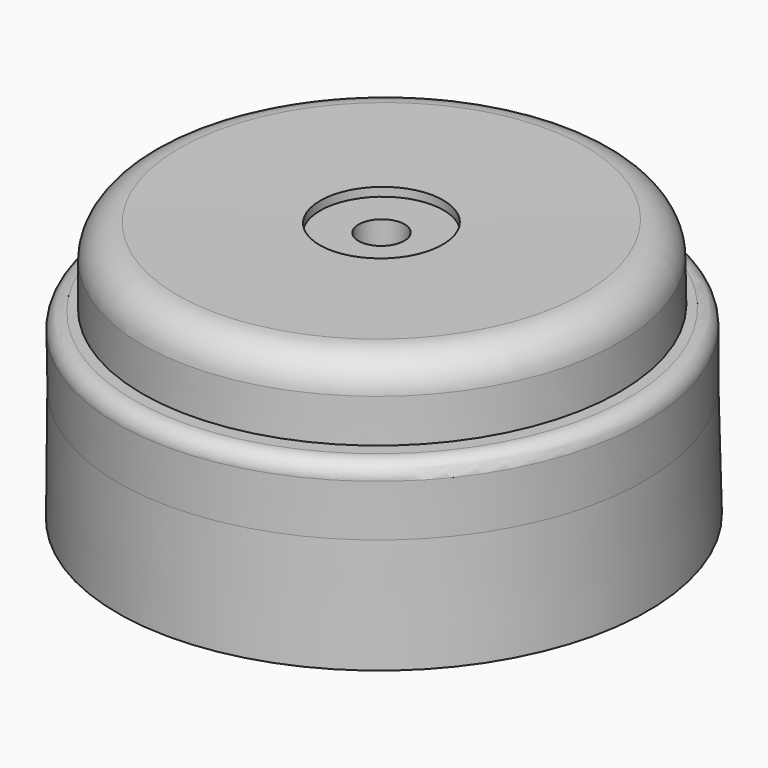
from build123d import *

# Parameters (mm, degrees)
F5_DEPTH = 0.75


with BuildPart() as f2:
    # F0 (on Front) → F2 (revolve)
    with BuildSketch(Plane.XZ):
        with BuildLine():
            Line((-1.3487565264, 7.9544333927), (-3.1521232403, 7.9434764208))
            Line((-3.1521232403, 7.9434764208), (-3.1521232403, 1.5934764208))
            Line((-3.1521232403, 1.5934764208), (-12.7521215063, 1.5992464713))
            Line((-12.7521215063, 1.5992464713), (-12.6789286733, 9.9799623713))
            Line((-12.6789286733, 9.9799623713), (-13.6410426348, 9.9799623713))
            ThreePointArc((-13.6410426348, 9.9799623713), (-14.2703829514, 9.7246417856), (-14.5244277004, 9.0947853727))
            Line((-14.5244277004, 9.0947853727), (-14.4742932171, 6.2504751841))
            Line((-14.4742932171, 6.2504751841), (-14.5186232403, 0))
            Line((-14.5186232403, 0), (0, 0))
            Line((0, 0), (-0.0152662604, 1.5993382476))
            Line((-0.0152662604, 1.5993382476), (-1.3487565264, 1.6044333927))
            Line((-1.3487565264, 1.6044333927), (-1.3487565264, 7.9544333927))
        make_face()
    revolve(axis=Axis((-0.0076331302, 0, 0.7996691238), (-0.0095449258, 0, 0.9999544462)))

    # F4 (on Top) → F5 (cut)
    with BuildSketch(Plane.XY):
        Polygon((-6.054009673, -9.1478030266), (10.9492346463, -0.6690246583), (-4.8952249733, 9.8168276848), align=None)
        Polygon((-5.0641396083, -7.6951645315), (-4.2572957464, 8.5492925718), (9.389662073, -0.48225461), align=None, mode=Mode.SUBTRACT)
    extrude(amount=F5_DEPTH, mode=Mode.SUBTRACT)


with BuildPart() as f3:
    # F1 (on Front) → F3 (revolve)
    with BuildSketch(Plane.XZ):
        with BuildLine():
            Line((-12.4288613136, 8.155473838), (-3.5388504621, 8.0721956371))
            Line((-3.5388504621, 8.0721956371), (-3.5388504621, 8.2962643355))
            Line((-3.5388504621, 8.2962643355), (-1.3876460725, 8.2962643355))
            Line((-1.3876460725, 8.2962643355), (-1.3876460725, 13.8216447085))
            Line((-1.3876460725, 13.8216447085), (-3.5057608038, 13.8036953285))
            Line((-3.5057608038, 13.8036953285), (-3.5050702863, 14.2829762243))
            Line((-3.5050702863, 14.2829762243), (-11.2670098338, 14.295093542))
            ThreePointArc((-11.2670098338, 14.295093542), (-12.5739068779, 13.7736506866), (-13.162885025, 12.4957667805))
            Line((-13.162885025, 12.4957667805), (-13.162885025, 10.1295179739))
            Line((-13.162885025, 10.1295179739), (-12.4544352293, 10.1403146982))
            Line((-12.4544352293, 10.1403146982), (-12.4288613136, 8.155473838))
        make_face()
    revolve(axis=Axis((-0.0076331302, 0, 0.7996691238), (-0.0095449258, 0, 0.9999544462)))


solid = Compound([f2.part, f3.part])
